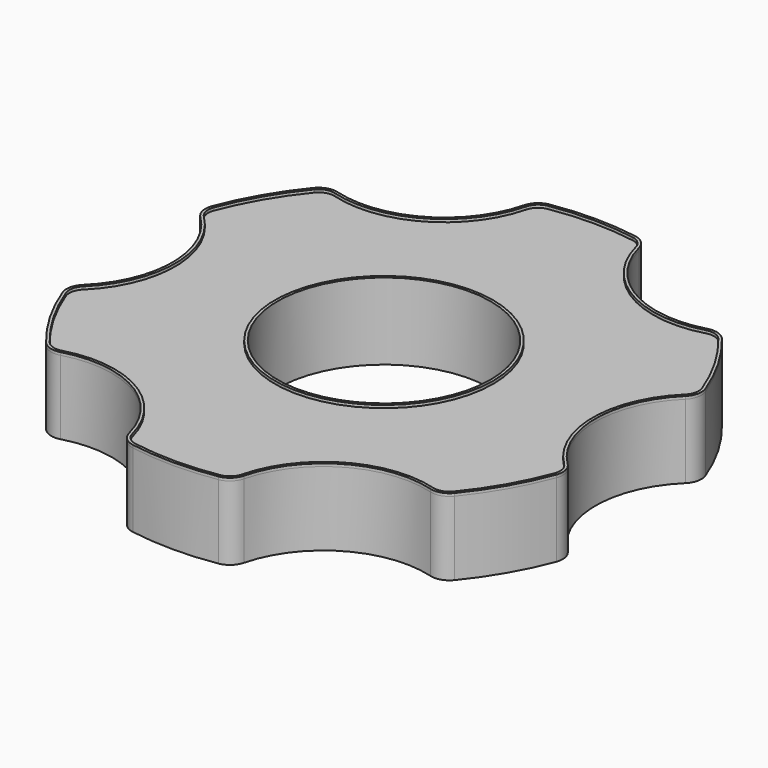
from build123d import *

# Parameters (mm, degrees)
F0_R     = 28.575
F0_R_2   = 11.525
F1_DEPTH = 8
F3_DEPTH = 25.4
F5_R     = 2
F6_R     = 11.825
F6_R_2   = 11.525
F7_DEPTH = 0.3


with BuildPart() as f1:
    # F0 (on Top) → F1 (new body)
    with BuildSketch(Plane.XY):
        Circle(F0_R)
        Circle(F0_R_2, mode=Mode.SUBTRACT)
    extrude(amount=F1_DEPTH)

    # F2 (on Top) → F3 (cut)
    with BuildSketch(Plane.XY):
        with BuildLine():
            ThreePointArc((6.6033751745, -33.3637991738), (17.0054966041, -29.4543841262), (25.592210064, -22.4005902387))
            ThreePointArc((25.592210064, -22.4005902387), (11.4492466041, -19.8306768266), (6.6033751745, -33.3637991738))
        make_face()
        with BuildLine():
            ThreePointArc((-25.592210064, -22.4005902387), (-17.0054966041, -29.4543841262), (-6.6033751745, -33.3637991738))
            ThreePointArc((-6.6033751745, -33.3637991738), (-6.0720335059, -31.4411002438), (-5.8929966041, -29.4543841262))
            ThreePointArc((-5.8929966041, -29.4543841262), (-13.259311683, -18.9923692731), (-25.592210064, -22.4005902387))
        make_face()
        with BuildLine():
            ThreePointArc((-22.8984932081, 0), (-25.5356944726, 7.187278177), (-32.1955852385, 10.9632089351))
            ThreePointArc((-32.1955852385, 10.9632089351), (-34.0109932081, 0), (-32.1955852385, -10.9632089351))
            ThreePointArc((-32.1955852385, -10.9632089351), (-25.5356944726, -7.187278177), (-22.8984932081, 0))
        make_face()
        with BuildLine():
            ThreePointArc((-5.8929966041, 29.4543841262), (-6.0720335059, 31.4411002438), (-6.6033751745, 33.3637991738))
            ThreePointArc((-6.6033751745, 33.3637991738), (-17.0054966041, 29.4543841262), (-25.592210064, 22.4005902387))
            ThreePointArc((-25.592210064, 22.4005902387), (-13.259311683, 18.9923692731), (-5.8929966041, 29.4543841262))
        make_face()
        with BuildLine():
            ThreePointArc((6.6033751745, 33.3637991738), (11.4492466041, 19.8306768266), (25.592210064, 22.4005902387))
            ThreePointArc((25.592210064, 22.4005902387), (17.0054966041, 29.4543841262), (6.6033751745, 33.3637991738))
        make_face()
        with BuildLine():
            ThreePointArc((32.1955852385, -10.9632089351), (33.5540719577, -5.55625), (34.0109932081, 0))
            ThreePointArc((34.0109932081, 0), (33.5540719577, 5.55625), (32.1955852385, 10.9632089351))
            ThreePointArc((32.1955852385, 10.9632089351), (22.8984932081, 0), (32.1955852385, -10.9632089351))
        make_face()
    extrude(amount=F3_DEPTH, mode=Mode.SUBTRACT)

    # F5
    f5_edges = [f1.edges().sort_by_distance(p)[0] for p in [
        (-5.996854, -27.938654, 4),
        (-21.197157, -19.162755, 4),
        (-27.194011, -8.775899, 4),
        (-27.194011, 8.775899, 4),
        (-21.197157, 19.162755, 4),
        (-5.996854, 27.938654, 4),
        (21.197157, 19.162755, 4),
        (5.996854, 27.938654, 4),
        (27.194011, 8.775899, 4),
        (27.194011, -8.775899, 4),
        (21.197157, -19.162755, 4),
        (5.996854, -27.938654, 4),
    ]]
    fillet(f5_edges, radius=F5_R)

    # F6 (on face) → F7 (join)
    with BuildSketch(Plane.XY.offset(8)):
        with BuildLine():
            ThreePointArc((-26.2559413513, -7.9590719903), (-26.8126146976, -8.9578184245), (-26.7311533501, -10.0983199383))
            ThreePointArc((-26.7311533501, -10.0983199383), (-24.7466759131, -14.2875), (-22.1109782771, -18.1006979045))
            ThreePointArc((-22.1109782771, -18.1006979045), (-21.1640056669, -18.7414962577), (-20.0207292098, -18.7587762153))
            ThreePointArc((-20.0207292098, -18.7587762153), (-11.4492466041, -19.8306768266), (-6.2352121415, -26.7178482057))
            ThreePointArc((-6.2352121415, -26.7178482057), (-5.6486090307, -27.6993146822), (-4.6201750729, -28.1990178427))
            ThreePointArc((-4.6201750729, -28.1990178427), (0, -28.575), (4.6201750729, -28.1990178427))
            ThreePointArc((4.6201750729, -28.1990178427), (5.6486090307, -27.6993146822), (6.2352121415, -26.7178482057))
            ThreePointArc((6.2352121415, -26.7178482057), (11.4492466041, -19.8306768266), (20.0207292098, -18.7587762153))
            ThreePointArc((20.0207292098, -18.7587762153), (21.1640056669, -18.7414962577), (22.1109782771, -18.1006979045))
            ThreePointArc((22.1109782771, -18.1006979045), (24.7466759131, -14.2875), (26.7311533501, -10.0983199383))
            ThreePointArc((26.7311533501, -10.0983199383), (26.8126146976, -8.9578184245), (26.2559413513, -7.9590719903))
            ThreePointArc((26.2559413513, -7.9590719903), (22.8984932081, 0), (26.2559413513, 7.9590719903))
            ThreePointArc((26.2559413513, 7.9590719903), (26.8126146976, 8.9578184245), (26.7311533501, 10.0983199383))
            ThreePointArc((26.7311533501, 10.0983199383), (24.7466759131, 14.2875), (22.1109782771, 18.1006979045))
            ThreePointArc((22.1109782771, 18.1006979045), (21.1640056669, 18.7414962577), (20.0207292098, 18.7587762153))
            ThreePointArc((20.0207292098, 18.7587762153), (11.4492466041, 19.8306768266), (6.2352121415, 26.7178482057))
            ThreePointArc((6.2352121415, 26.7178482057), (5.6486090307, 27.6993146822), (4.6201750729, 28.1990178427))
            ThreePointArc((4.6201750729, 28.1990178427), (0, 28.575), (-4.6201750729, 28.1990178427))
            ThreePointArc((-4.6201750729, 28.1990178427), (-5.6486090307, 27.6993146822), (-6.2352121415, 26.7178482057))
            ThreePointArc((-6.2352121415, 26.7178482057), (-11.4492466041, 19.8306768266), (-20.0207292098, 18.7587762153))
            ThreePointArc((-20.0207292098, 18.7587762153), (-21.1640056669, 18.7414962577), (-22.1109782771, 18.1006979045))
            ThreePointArc((-22.1109782771, 18.1006979045), (-24.7466759131, 14.2875), (-26.7311533501, 10.0983199383))
            ThreePointArc((-26.7311533501, 10.0983199383), (-26.8126146976, 8.9578184245), (-26.2559413513, 7.9590719903))
            ThreePointArc((-26.2559413513, 7.9590719903), (-22.8984932081, 0), (-26.2559413513, -7.9590719903))
        make_face()
        with BuildLine():
            ThreePointArc((-26.0465811212, 8.1739400756), (-26.5197534655, 9.0228745446), (-26.4505113201, 9.9923008313))
            ThreePointArc((-26.4505113201, 9.9923008313), (-24.486868292, 14.1375), (-21.8788420223, 17.9106643307))
            ThreePointArc((-21.8788420223, 17.9106643307), (-21.0739153035, 18.4553429309), (-20.102130315, 18.4700308949))
            ThreePointArc((-20.102130315, 18.4700308949), (-11.2992466041, 19.5708692055), (-5.9444508061, 26.6439709705))
            ThreePointArc((-5.9444508061, 26.6439709705), (-5.445838162, 27.4782174755), (-4.5716692979, 27.902965162))
            ThreePointArc((-4.5716692979, 27.902965162), (0, 28.275), (4.5716692979, 27.902965162))
            ThreePointArc((4.5716692979, 27.902965162), (5.445838162, 27.4782174755), (5.9444508061, 26.6439709705))
            ThreePointArc((5.9444508061, 26.6439709705), (11.2992466041, 19.5708692055), (20.102130315, 18.4700308949))
            ThreePointArc((20.102130315, 18.4700308949), (21.0739153035, 18.4553429309), (21.8788420223, 17.9106643307))
            ThreePointArc((21.8788420223, 17.9106643307), (24.486868292, 14.1375), (26.4505113201, 9.9923008313))
            ThreePointArc((26.4505113201, 9.9923008313), (26.5197534655, 9.0228745446), (26.0465811212, 8.1739400756))
            ThreePointArc((26.0465811212, 8.1739400756), (22.5984932081, 0), (26.0465811212, -8.1739400756))
            ThreePointArc((26.0465811212, -8.1739400756), (26.5197534655, -9.0228745446), (26.4505113201, -9.9923008313))
            ThreePointArc((26.4505113201, -9.9923008313), (24.486868292, -14.1375), (21.8788420223, -17.9106643307))
            ThreePointArc((21.8788420223, -17.9106643307), (21.0739153035, -18.4553429309), (20.102130315, -18.4700308949))
            ThreePointArc((20.102130315, -18.4700308949), (11.2992466041, -19.5708692055), (5.9444508061, -26.6439709705))
            ThreePointArc((5.9444508061, -26.6439709705), (5.445838162, -27.4782174755), (4.5716692979, -27.902965162))
            ThreePointArc((4.5716692979, -27.902965162), (0, -28.275), (-4.5716692979, -27.902965162))
            ThreePointArc((-4.5716692979, -27.902965162), (-5.445838162, -27.4782174755), (-5.9444508061, -26.6439709705))
            ThreePointArc((-5.9444508061, -26.6439709705), (-11.2992466041, -19.5708692055), (-20.102130315, -18.4700308949))
            ThreePointArc((-20.102130315, -18.4700308949), (-21.0739153035, -18.4553429309), (-21.8788420223, -17.9106643307))
            ThreePointArc((-21.8788420223, -17.9106643307), (-24.486868292, -14.1375), (-26.4505113201, -9.9923008313))
            ThreePointArc((-26.4505113201, -9.9923008313), (-26.5197534655, -9.0228745446), (-26.0465811212, -8.1739400756))
            ThreePointArc((-26.0465811212, -8.1739400756), (-22.5984932081, 0), (-26.0465811212, 8.1739400756))
        make_face(mode=Mode.SUBTRACT)
        Circle(F6_R)
        Circle(F6_R_2, mode=Mode.SUBTRACT)
    extrude(amount=F7_DEPTH)


solid = f1.part
